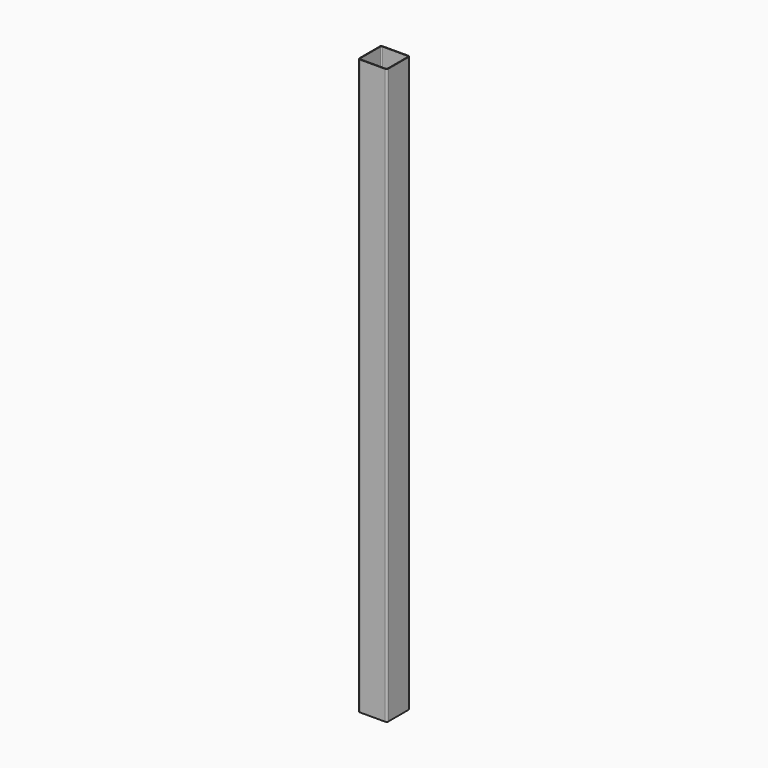
from build123d import *

# Parameters (mm, degrees)
F1_DEPTH = 8000
F2_T     = -8


with BuildPart() as f1:
    # F0 (on Top) → F1 (new body)
    with BuildSketch(Plane.XY):
        with BuildLine():
            Line((-175, -200), (175, -200))
            ThreePointArc((175, -200), (192.67767, -192.67767), (200, -175))
            Line((200, -175), (200, 175))
            ThreePointArc((200, 175), (192.67767, 192.67767), (175, 200))
            Line((175, 200), (-175, 200))
            ThreePointArc((-175, 200), (-192.67767, 192.67767), (-200, 175))
            Line((-200, 175), (-200, -175))
            ThreePointArc((-200, -175), (-192.67767, -192.67767), (-175, -200))
        make_face()
    extrude(amount=F1_DEPTH)

    # F2
    f2_openings = [f1.faces().sort_by_distance(p)[0] for p in [
        (0, 0, 8000),
    ]]
    offset(amount=F2_T, openings=f2_openings)


solid = f1.part
